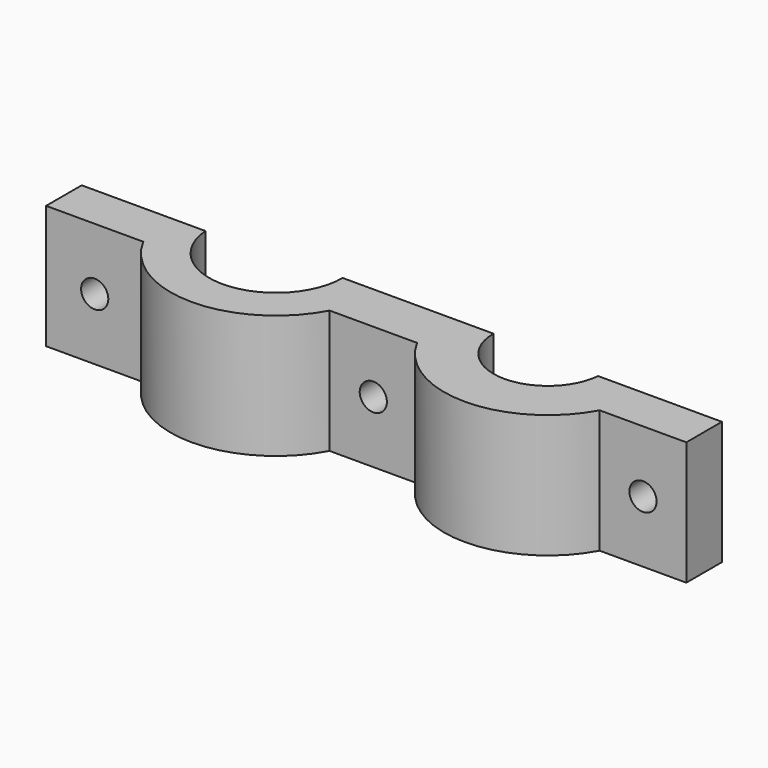
from build123d import *

# Parameters (mm, degrees)
F1_DEPTH       = 25
F5_D           = 5.5
F5_DEPTH       = 14.1
F5_TIP         = 1.6523667023
F5_ON_F3_D     = 5.5
F5_ON_F3_DEPTH = 14.1
F5_ON_F3_TIP   = 1.6523667023
F5_ON_F4_D     = 5.5
F5_ON_F4_DEPTH = 14.1
F5_ON_F4_TIP   = 1.6523667023
F6_W           = 1
F6_H           = 25
F7_DEPTH       = 30
F8_W           = 1
F8_H           = 25
F9_DEPTH       = 30


with BuildPart() as f1:
    # F0 (on Top) → F1 (new body)
    with BuildSketch(Plane.XY):
        with BuildLine():
            Line((-38.4127462552, -1.4693210872), (-63.4127462552, -1.4693210872))
            Line((-63.4127462552, -1.4693210872), (-63.4127462552, -11.4693210872))
            Line((-63.4127462552, -11.4693210872), (-43.749593064, -11.4693210872))
            ThreePointArc((-43.749593064, -11.4693210872), (-24.9127462552, -22.7959897839), (-6.0758994463, -11.4693210872))
            Line((-6.0758994463, -11.4693210872), (11.6210684322, -11.4693210872))
            ThreePointArc((11.6210684322, -11.4693210872), (30.0872537448, -22.4693210872), (48.5534390575, -11.4693210872))
            Line((48.5534390575, -11.4693210872), (66.0872537448, -11.4693210872))
            Line((66.0872537448, -11.4693210872), (66.0872537448, -1.4693210872))
            Line((66.0872537448, -1.4693210872), (41.0872537448, -1.4693210872))
            ThreePointArc((41.0872537448, -1.4693210872), (30.0872537448, -12.4693210872), (19.0872537448, -1.4693210872))
            Line((19.0872537448, -1.4693210872), (-11.4127462552, -1.4693210872))
            ThreePointArc((-11.4127462552, -1.4693210872), (-24.9127462552, -14.9693210872), (-38.4127462552, -1.4693210872))
        make_face()
    extrude(amount=F1_DEPTH)

    # F5
    with Locations(Plane.XZ.offset(11.4693210872)):
        with Locations((-53.5811696596, 12.5)):
            Hole(F5_D / 2, depth=F5_DEPTH)
            with Locations((0, 0, -(F5_DEPTH + F5_TIP / 2))):  # 118° drill point
                Cone(0, F5_D / 2, F5_TIP, mode=Mode.SUBTRACT)

    # F5 on F3
    with Locations(Plane.XZ.offset(11.4693210872)):
        with Locations((57.3203464011, 12.5)):
            Hole(F5_ON_F3_D / 2, depth=F5_ON_F3_DEPTH)
            with Locations((0, 0, -(F5_ON_F3_DEPTH + F5_ON_F3_TIP / 2))):  # 118° drill point
                Cone(0, F5_ON_F3_D / 2, F5_ON_F3_TIP, mode=Mode.SUBTRACT)

    # F5 on F4
    with Locations(Plane.XZ.offset(11.4693210872)):
        with Locations((2.772584493, 12.5)):
            Hole(F5_ON_F4_D / 2, depth=F5_ON_F4_DEPTH)
            with Locations((0, 0, -(F5_ON_F4_DEPTH + F5_ON_F4_TIP / 2))):  # 118° drill point
                Cone(0, F5_ON_F4_D / 2, F5_ON_F4_TIP, mode=Mode.SUBTRACT)

    # F6 (on face) → F7 (cut)
    with BuildSketch(Plane.YZ.offset(66.0872537448)):
        with Locations((-1.9693210872, 12.5)):
            Rectangle(F6_W, F6_H)
    extrude(amount=-F7_DEPTH, mode=Mode.SUBTRACT)

    # F8 (on face) → F9 (cut)
    with BuildSketch(Plane(origin=(-63.4127462552, 0, 0), x_dir=(0, -1, 0), z_dir=(-1, 0, 0))):
        with Locations((1.9693210872, 12.5)):
            Rectangle(F8_W, F8_H)
    extrude(amount=-F9_DEPTH, mode=Mode.SUBTRACT)


solid = f1.part
